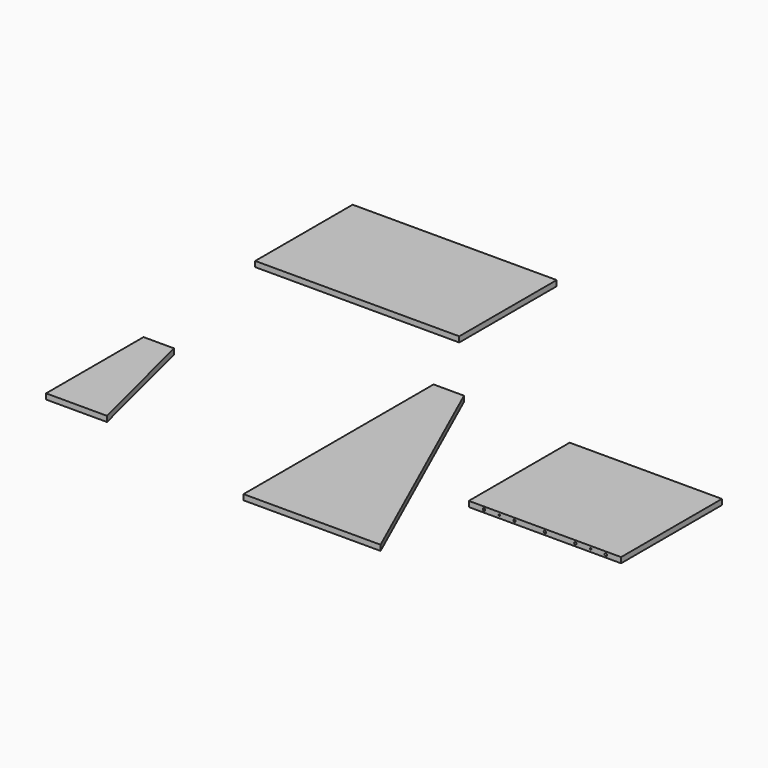
from build123d import *

# Parameters (mm, degrees)
F1_DEPTH  = 18
F2_W      = 500
F2_H      = 414
F3_DEPTH  = 18
F4_DEPTH  = 18
F6_D      = 8
F8_DEPTH  = 18
F9_W      = 670
F9_H      = 400
F10_DEPTH = 18
F11_D     = 5


with BuildPart() as f1:
    # F0 (on Top) → F1 (new body)
    with BuildSketch(Plane.XY):
        Polygon((-196.072614, 475.402147), (-196.072614, -304.597853), (253.927386, -304.597853), (-96.072614, 475.402147), align=None)
    extrude(amount=F1_DEPTH)


with BuildPart() as f3:
    # F2 (on face) → F3 (new body)
    with BuildSketch(Plane.XY.offset(18)):
        with Locations((550, 207)):
            Rectangle(F2_W, F2_H)
    extrude(amount=F3_DEPTH)

    # F2 (on face) → F4 (join)
    with BuildSketch(Plane.XY.offset(18)):
        with Locations((550, 207)):
            Rectangle(F2_W, F2_H)
    extrude(amount=F4_DEPTH)

    # F6 (through all)
    with Locations(Plane.XZ):
        with Locations((350, 27), (450, 27), (550, 27), (650, 27), (750, 27)):
            Hole(F6_D / 2)

    # F11 (through all)
    with Locations(Plane.XZ):
        with Locations((400, 27), (700, 27)):
            Hole(F11_D / 2)


with BuildPart() as f8:
    # F7 (on Top) → F8 (new body)
    with BuildSketch(Plane.XY):
        Polygon((-941.011737, 216.118392), (-941.011737, -183.881608), (-741.011737, -183.881608), (-841.011737, 216.118392), align=None)
    extrude(amount=F8_DEPTH)


with BuildPart() as f10:
    # F9 (on Top) → F10 (new body)
    with BuildSketch(Plane.XY):
        with Locations((-646.582007, 925.243556)):
            Rectangle(F9_W, F9_H)
    extrude(amount=F10_DEPTH)


solid = Compound([f1.part, f3.part, f8.part, f10.part])
